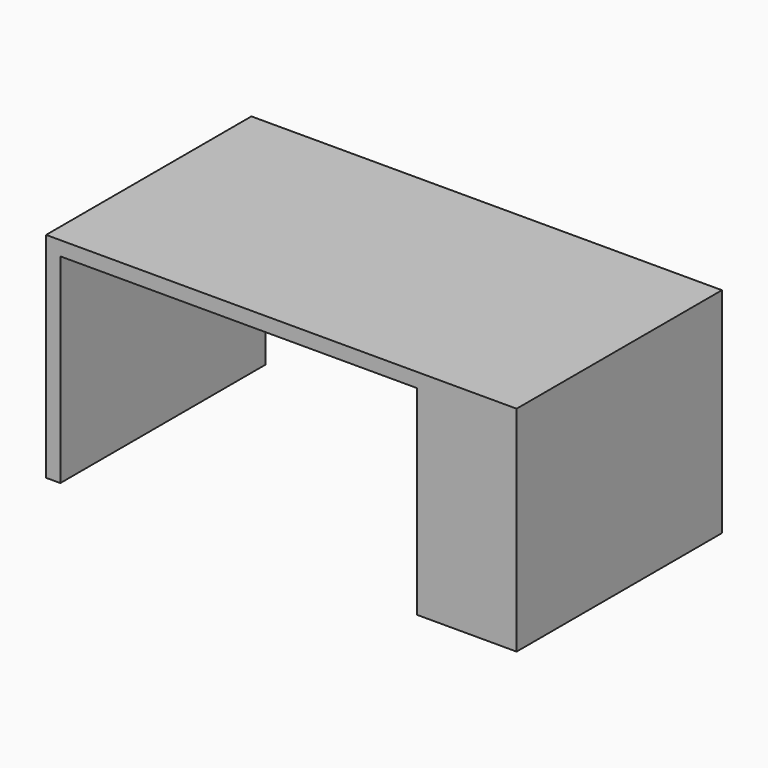
from build123d import *

# Parameters (mm, degrees)
F0_W     = 1676.4
F0_H     = 914.4
F1_DEPTH = 762
F2_W     = 1270
F2_H     = 711.2
F3_DEPTH = 914.4


with BuildPart() as f1:
    # F0 (on Top) → F1 (new body)
    with BuildSketch(Plane.XY):
        Rectangle(F0_W, F0_H)
    extrude(amount=F1_DEPTH)

    # F2 (on face) → F3 (cut, through all)
    with BuildSketch(Plane.XZ.offset(457.2)):
        with Locations((-152.4, 355.6)):
            Rectangle(F2_W, F2_H)
    extrude(amount=-F3_DEPTH, mode=Mode.SUBTRACT)


solid = f1.part
